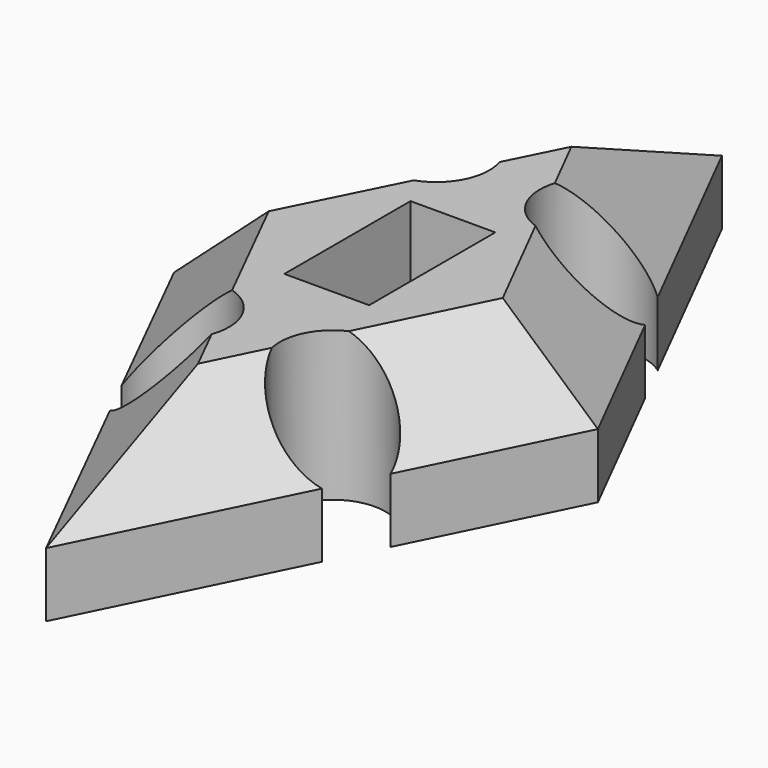
from build123d import *

# Parameters (mm, degrees)
F0_W     = 5.08
F0_H     = 9.4488
F1_DEPTH = 8.9408
F2_SIZE  = 5.08


with BuildPart() as f1:
    # F0 (on Top) → F1 (new body)
    with BuildSketch(Plane.XY):
        with BuildLine():
            Line((7.240503, 18.486844), (0.631969, 31.55458))
            Line((0.631969, 31.55458), (-5.887907, 18.514827))
            ThreePointArc((-5.887907, 18.514827), (-1.181826, 14.555856), (-7.172652, 15.945338))
            Line((-7.172652, 15.945338), (-11.995878, 6.298886))
            Line((-11.995878, 6.298886), (-6.752345, -4.18818))
            ThreePointArc((-6.752345, -4.18818), (-0.76504, -2.622707), (-5.609802, -6.473267))
            Line((-5.609802, -6.473267), (0.776275, -19.24542))
            Line((0.776275, -19.24542), (7.090198, -6.473267))
            ThreePointArc((7.090198, -6.473267), (2.69261, -2.32251), (8.660834, -3.296099))
            Line((8.660834, -3.296099), (13.404122, 6.298886))
            Line((13.404122, 6.298886), (8.536952, 15.923241))
            ThreePointArc((8.536952, 15.923241), (2.552526, 14.506452), (7.240503, 18.486844))
        make_face()
        with Locations((0.762, 6.519205)):
            Rectangle(F0_W, F0_H, mode=Mode.SUBTRACT)
    extrude(amount=F1_DEPTH)

    # F2
    f2_edges = [f1.edges().sort_by_distance(p)[0] for p in [
        (3.936236, 25.020712, 8.9408),
        (-2.627969, 25.034703, 8.9408),
        (-9.584265, 11.122112, 8.9408),
        (-9.374112, 1.055353, 8.9408),
        (-2.416764, -12.859344, 8.9408),
        (3.933236, -12.859344, 8.9408),
        (11.032478, 1.501393, 8.9408),
        (10.970537, 11.111063, 8.9408),
    ]]
    chamfer(f2_edges, length=F2_SIZE)


solid = f1.part
